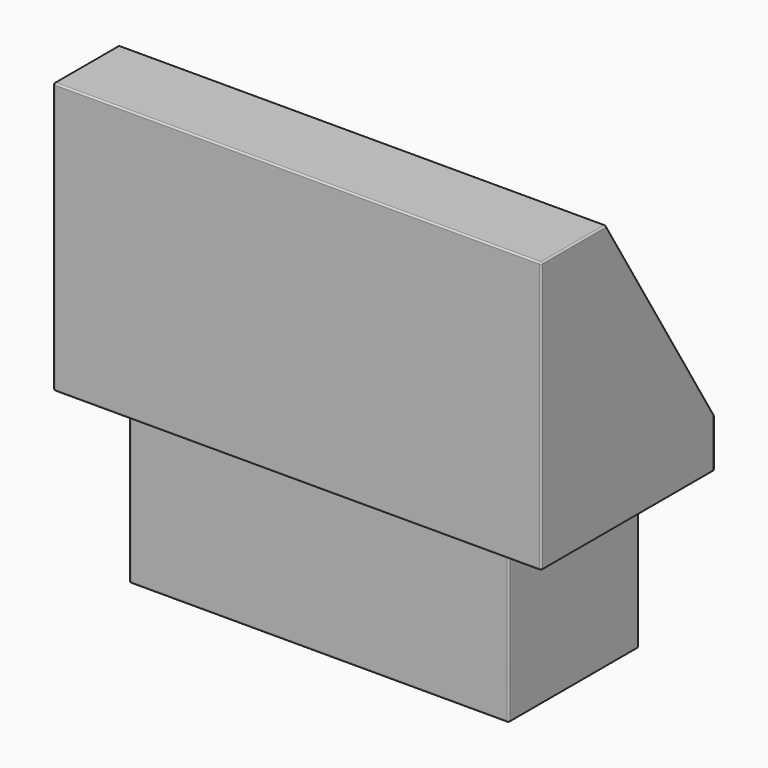
from build123d import *

# Parameters (mm, degrees)
F4_DEPTH = 900
F5_W     = 700
F5_H     = 300
F6_DEPTH = 300
F7_R     = 3
F8_R     = 3


with BuildPart() as f4:
    # F3 (on face) → F4 (new body, through all)
    with BuildSketch(Plane(origin=(450, 0, 0), x_dir=(0, -1, 0), z_dir=(-1, 0, 0))):
        Polygon((-200, 0), (200, 0), (200, 500), (50, 500), (-200, 90), align=None)
    extrude(amount=F4_DEPTH)

    # F7
    f7_edges = [f4.edges().sort_by_distance(p)[0] for p in [
        (0, 200, 90),
        (0, -50, 500),
        (0, -200, 500),
        (450, 0, 0),
        (0, 200, 0),
        (450, -125, 500),
        (-450, -125, 500),
        (450, 75, 295),
        (0, -200, 0),
        (-450, 0, 0),
        (450, -200, 250),
        (-450, -200, 250),
        (-450, 75, 295),
        (450, 200, 45),
        (-450, 200, 45),
    ]]
    fillet(f7_edges, radius=F7_R)


with BuildPart() as f6:
    # F5 (on face) → F6 (new body, through all)
    with BuildSketch(Plane(origin=(0, 0, 0), x_dir=(1, 0, 0), z_dir=(0, 0, -1))):
        Rectangle(F5_W, F5_H)
    extrude(amount=F6_DEPTH)

    # F8
    f8_edges = [f6.edges().sort_by_distance(p)[0] for p in [
        (0, -150, 0),
        (-350, 0, 0),
        (350, 0, 0),
        (350, 0, -300),
        (-350, 0, -300),
        (350, -150, -150),
        (350, 150, -150),
        (0, -150, -300),
        (0, 150, 0),
        (-350, 150, -150),
        (0, 150, -300),
        (-350, -150, -150),
    ]]
    fillet(f8_edges, radius=F8_R)


solid = Compound([f4.part, f6.part])
